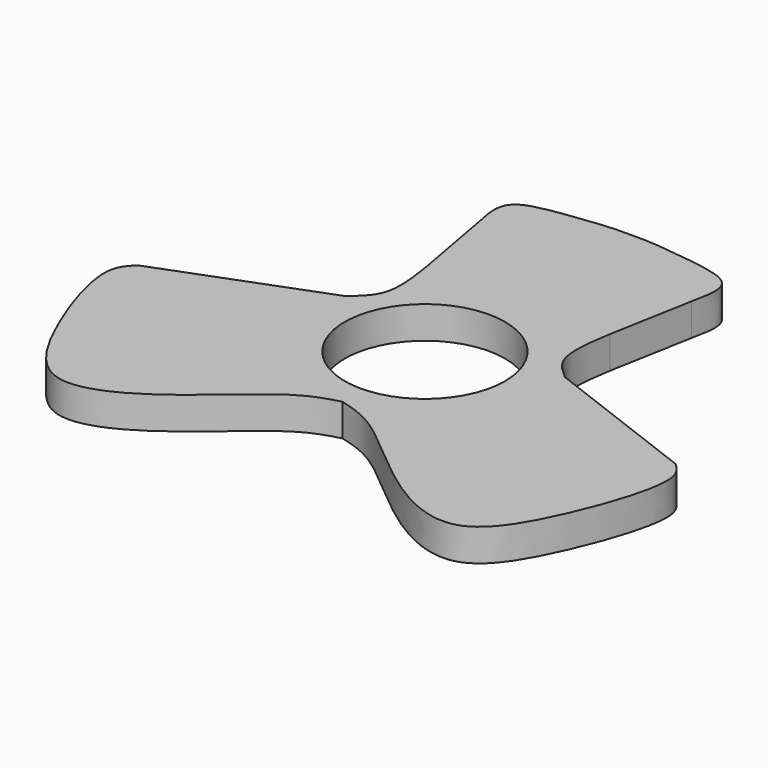
from build123d import *

# Parameters (mm, degrees)
F2_DEPTH = 4.1
F1_R     = 10.1840940051
F3_DEPTH = 4.6


with BuildPart() as f2:
    # F0 (on Top) → F2 (new body)
    with BuildSketch(Plane.XY):
        with BuildLine():
            Line((-13.9423077926, 5.192308221), (-34.1346152127, -2.500000177))
            add(Edge.make_bspline(
                [(-34.1346152127, -2.500000177), (-34.8153660234, -3.1554786066), (-36.9279536793, -5.1896379749), (-32.5657478101, -18.4372392592), (-26.1485725178, -28.7516207984), (-14.8121086617, -23.6177985602), (-5.3925314903, -14.1616043518), (-1.4889629138, -13.1128289054), (0, -12.7127878368)],
                knots=[0, 0, 0, 0, 0.0975402283, 0.3026985485, 0.4857718323, 0.6662312329, 0.8726884628, 1, 1, 1, 1], degree=3))
            add(Edge.make_bspline(
                [(34.1346152127, -2.500000177), (34.8153660234, -3.1554786066), (36.9279536793, -5.1896379749), (32.5657478101, -18.4372392592), (26.1485725178, -28.7516207984), (14.8121086617, -23.6177985602), (5.3925314903, -14.1616043518), (1.4889629138, -13.1128289054), (0, -12.7127878368)],
                knots=[0, 0, 0, 0, 0.0975402283, 0.3026985485, 0.4857718323, 0.6662312329, 0.8726884628, 1, 1, 1, 1], degree=3))
            Line((34.1346152127, -2.500000177), (13.9423077926, 5.192308221))
            add(Edge.make_bspline(
                [(13.9423077926, 5.192308221), (12.9190649107, 6.0628175216), (10.5433865575, 8.0838920272), (11.2387538411, 12.6136118392), (11.6346152499, 15.1923084632)],
                knots=[0, 0, 0, 0, 0.430716086, 1, 1, 1, 1], degree=3))
            Line((11.6346152499, 15.1923084632), (13.5576929897, 25.769231841))
            add(Edge.make_bspline(
                [(13.5576929897, 25.769231841), (13.9558043502, 27.6146833746), (14.7949089324, 31.5043659901), (10.3282380233, 32.157006111), (7.9807695001, 32.5000025332)],
                knots=[0, 0, 0, 0, 0.4744478447, 1, 1, 1, 1], degree=3))
            add(Edge.make_bspline(
                [(7.9807695001, 32.5000025332), (6.1885033263, 32.7405203093), (3.0321695881, 33.1640926459), (0.9149816372, 33.1540721369), (0, 33.14974159)],
                knots=[0, 0, 0, 0, 0.5678316435, 1, 1, 1, 1], degree=3))
            add(Edge.make_bspline(
                [(-7.9807695001, 32.5000025332), (-6.1885033263, 32.7405203093), (-3.0321695881, 33.1640926459), (-0.9149816372, 33.1540721369), (0, 33.14974159)],
                knots=[0, 0, 0, 0, 0.5678316435, 1, 1, 1, 1], degree=3))
            add(Edge.make_bspline(
                [(-13.5576929897, 25.769231841), (-13.9558043502, 27.6146833746), (-14.7949089324, 31.5043659901), (-10.3282380233, 32.157006111), (-7.9807695001, 32.5000025332)],
                knots=[0, 0, 0, 0, 0.4744478447, 1, 1, 1, 1], degree=3))
            Line((-13.5576929897, 25.769231841), (-11.6346152499, 15.1923084632))
            add(Edge.make_bspline(
                [(-13.9423077926, 5.192308221), (-12.9190649107, 6.0628175216), (-10.5433865575, 8.0838920272), (-11.2387538411, 12.6136118392), (-11.6346152499, 15.1923084632)],
                knots=[0, 0, 0, 0, 0.430716086, 1, 1, 1, 1], degree=3))
        make_face()
    extrude(amount=F2_DEPTH)

    # F1 (on face) → F3 (cut)
    with BuildSketch(Plane.XY):
        with Locations((-0.3619063937, 0.8237220463)):
            Circle(F1_R)
    extrude(amount=F3_DEPTH, mode=Mode.SUBTRACT)


solid = f2.part
